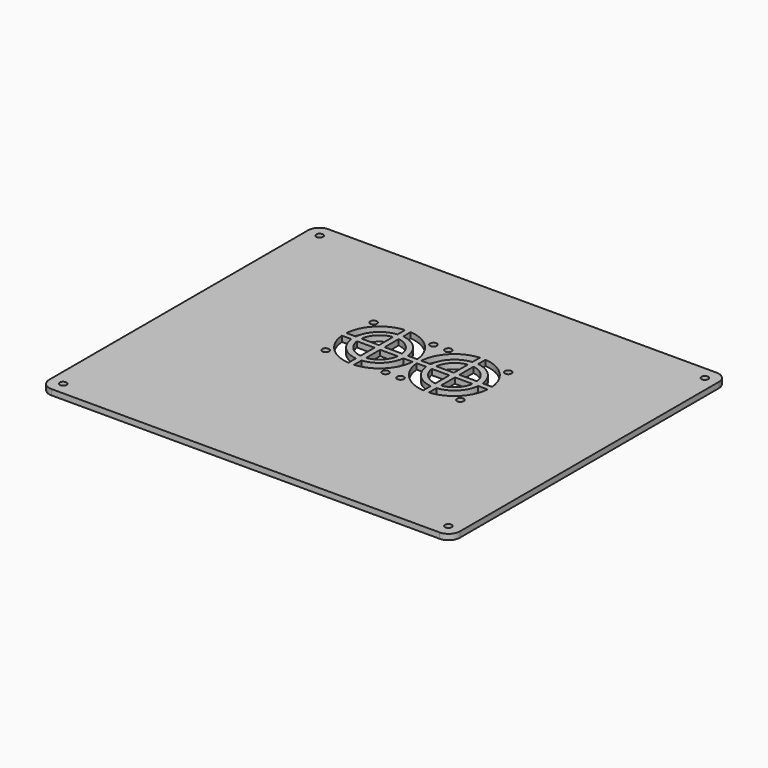
from build123d import *

# Parameters (mm, degrees)
F0_W     = 219.54
F0_H     = 185.029
F1_DEPTH = 3
F2_R     = 1.8
F3_DEPTH = 25
F4_R     = 6


with BuildPart() as f1:
    # F0 (on Top) → F1 (new body)
    with BuildSketch(Plane.XY):
        with Locations((-2.597172, 26.777473)):
            Rectangle(F0_W, F0_H)
    extrude(amount=F1_DEPTH)

    # F2 (on face) → F3 (cut)
    with BuildSketch(Plane.XY.offset(3)):
        with BuildLine():
            Line((-24.400172, 63.109384), (-24.400172, 68.13067))
            ThreePointArc((-24.400172, 68.13067), (-36.335201, 62.625002), (-41.840869, 50.689973))
            Line((-41.840869, 50.689973), (-36.819583, 50.689973))
            ThreePointArc((-36.819583, 50.689973), (-32.799667, 59.089468), (-24.400172, 63.109384))
        make_face()
        with BuildLine():
            ThreePointArc((-41.840869, 47.689973), (-36.335201, 35.754944), (-24.400172, 30.249276))
            Line((-24.400172, 30.249276), (-24.400172, 35.270562))
            ThreePointArc((-24.400172, 35.270562), (-32.799667, 39.290478), (-36.819583, 47.689973))
            Line((-36.819583, 47.689973), (-41.840869, 47.689973))
        make_face()
        with BuildLine():
            ThreePointArc((-21.400172, 30.249276), (-9.465143, 35.754944), (-3.959475, 47.689973))
            Line((-3.959475, 47.689973), (-8.980761, 47.689973))
            ThreePointArc((-8.980761, 47.689973), (-13.000677, 39.290478), (-21.400172, 35.270562))
            Line((-21.400172, 35.270562), (-21.400172, 30.249276))
        make_face()
        with BuildLine():
            Line((-12.002924, 47.689973), (-21.400172, 47.689973))
            Line((-21.400172, 47.689973), (-21.400172, 38.292726))
            ThreePointArc((-21.400172, 38.292726), (-15.121997, 41.411798), (-12.002924, 47.689973))
        make_face()
        with BuildLine():
            Line((-24.400172, 47.689973), (-33.797419, 47.689973))
            ThreePointArc((-33.797419, 47.689973), (-30.678346, 41.411798), (-24.400172, 38.292726))
            Line((-24.400172, 38.292726), (-24.400172, 47.689973))
        make_face()
        with BuildLine():
            Line((-33.797419, 50.689973), (-24.400172, 50.689973))
            Line((-24.400172, 50.689973), (-24.400172, 60.08722))
            ThreePointArc((-24.400172, 60.08722), (-30.678346, 56.968148), (-33.797419, 50.689973))
        make_face()
        with BuildLine():
            Line((-8.980761, 50.689973), (-3.959475, 50.689973))
            ThreePointArc((-3.959475, 50.689973), (-9.465143, 62.625002), (-21.400172, 68.13067))
            Line((-21.400172, 68.13067), (-21.400172, 63.109384))
            ThreePointArc((-21.400172, 63.109384), (-13.000677, 59.089468), (-8.980761, 50.689973))
        make_face()
        with BuildLine():
            Line((15.599828, 63.109384), (15.599828, 68.13067))
            ThreePointArc((15.599828, 68.13067), (3.664799, 62.625002), (-1.840869, 50.689973))
            Line((-1.840869, 50.689973), (3.180417, 50.689973))
            ThreePointArc((3.180417, 50.689973), (7.200333, 59.089468), (15.599828, 63.109384))
        make_face()
        with BuildLine():
            Line((31.019239, 50.689973), (36.040525, 50.689973))
            ThreePointArc((36.040525, 50.689973), (30.534857, 62.625002), (18.599828, 68.13067))
            Line((18.599828, 68.13067), (18.599828, 63.109384))
            ThreePointArc((18.599828, 63.109384), (26.999323, 59.089468), (31.019239, 50.689973))
        make_face()
        with BuildLine():
            Line((18.599828, 50.689973), (27.997076, 50.689973))
            ThreePointArc((27.997076, 50.689973), (24.878003, 56.968148), (18.599828, 60.08722))
            Line((18.599828, 60.08722), (18.599828, 50.689973))
        make_face()
        with BuildLine():
            Line((6.202581, 50.689973), (15.599828, 50.689973))
            Line((15.599828, 50.689973), (15.599828, 60.08722))
            ThreePointArc((15.599828, 60.08722), (9.321654, 56.968148), (6.202581, 50.689973))
        make_face()
        with BuildLine():
            Line((15.599828, 47.689973), (6.202581, 47.689973))
            ThreePointArc((6.202581, 47.689973), (9.321654, 41.411798), (15.599828, 38.292726))
            Line((15.599828, 38.292726), (15.599828, 47.689973))
        make_face()
        with BuildLine():
            Line((27.997076, 47.689973), (18.599828, 47.689973))
            Line((18.599828, 47.689973), (18.599828, 38.292726))
            ThreePointArc((18.599828, 38.292726), (24.878003, 41.411798), (27.997076, 47.689973))
        make_face()
        with BuildLine():
            ThreePointArc((-1.840869, 47.689973), (3.664799, 35.754944), (15.599828, 30.249276))
            Line((15.599828, 30.249276), (15.599828, 35.270562))
            ThreePointArc((15.599828, 35.270562), (7.200333, 39.290478), (3.180417, 47.689973))
            Line((3.180417, 47.689973), (-1.840869, 47.689973))
        make_face()
        with BuildLine():
            ThreePointArc((18.599828, 30.249276), (30.534857, 35.754944), (36.040525, 47.689973))
            Line((36.040525, 47.689973), (31.019239, 47.689973))
            ThreePointArc((31.019239, 47.689973), (26.999323, 39.290478), (18.599828, 35.270562))
            Line((18.599828, 35.270562), (18.599828, 30.249276))
        make_face()
        with BuildLine():
            Line((-21.400172, 60.08722), (-21.400172, 50.689973))
            Line((-21.400172, 50.689973), (-12.002924, 50.689973))
            ThreePointArc((-12.002924, 50.689973), (-15.121997, 56.968148), (-21.400172, 60.08722))
        make_face()
        with Locations((-38.900172, 65.189973)):
            Circle(F2_R)
        with Locations((-6.900172, 65.189973)):
            Circle(F2_R)
        with Locations((1.099828, 65.189973)):
            Circle(F2_R)
        with Locations((33.099828, 65.189973)):
            Circle(F2_R)
        with Locations((33.099828, 33.189973)):
            Circle(F2_R)
        with Locations((1.099828, 33.189973)):
            Circle(F2_R)
        with Locations((-6.900172, 33.189973)):
            Circle(F2_R)
        with Locations((-38.900172, 33.189973)):
            Circle(F2_R)
        with Locations((-105.567172, -58.937027)):
            Circle(F2_R)
        with Locations((100.372828, -58.937027)):
            Circle(F2_R)
        with Locations((100.372828, 112.491973)):
            Circle(F2_R)
        with Locations((-105.567172, 112.491973)):
            Circle(F2_R)
    extrude(amount=-F3_DEPTH, mode=Mode.SUBTRACT)

    # F4
    f4_edges = [f1.edges().sort_by_distance(p)[0] for p in [
        (-112.367172, 119.291973, 1.5),
        (-112.367172, -65.737027, 1.5),
        (107.172828, -65.737027, 1.5),
        (107.172828, 119.291973, 1.5),
    ]]
    fillet(f4_edges, radius=F4_R)


solid = f1.part
